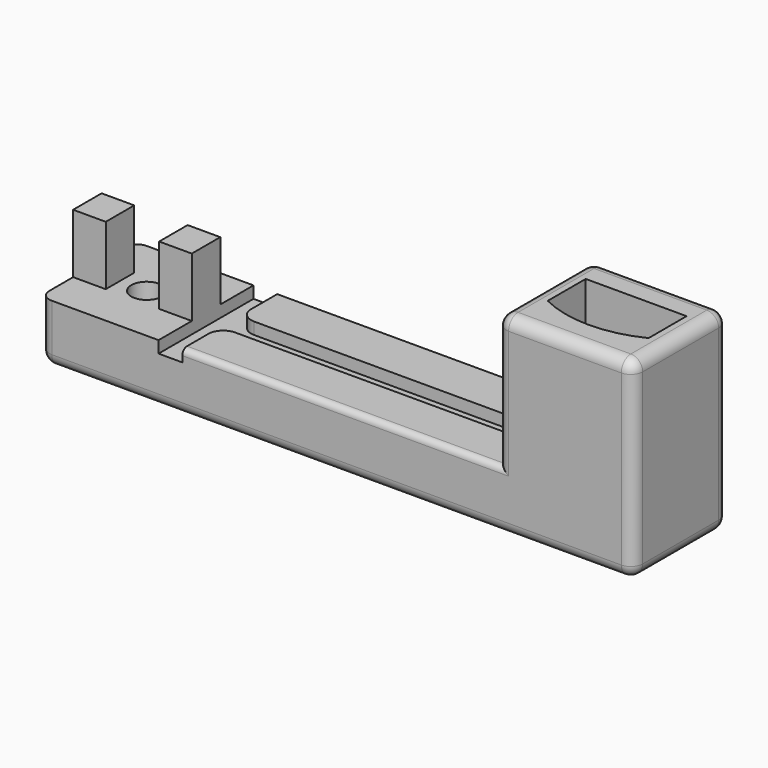
from build123d import *

# Parameters (mm, degrees)
SKETCH_W        = 100
SKETCH_H        = 20
SKETCH_R        = 2.6
PAD_DEPTH       = 10
SKETCH001_W     = 23
SKETCH001_H     = 20
PAD001_DEPTH    = 22.5
POCKET_DEPTH    = 10
SKETCH003_R     = 3.5
POCKET001_DEPTH = 15
POCKET002_DEPTH = 2
SKETCH006_W     = 5.5
SKETCH006_H     = 6
PAD002_DEPTH    = 10
FILLET_R        = 2
FILLET001_R     = 1
SKETCH007_R     = 4.6
POCKET003_DEPTH = 5


with BuildPart() as part:
    # Sketch → Pad (new body)
    with BuildSketch(Plane.XY):
        with Locations((50, 10)):
            Rectangle(SKETCH_W, SKETCH_H)
        with Locations((10, 10)):
            Circle(SKETCH_R, mode=Mode.SUBTRACT)
    extrude(amount=PAD_DEPTH)

    # Sketch001 (on Face7 of Pad) → Pad001 (join)
    with BuildSketch(Plane.XY.offset(10)):
        with Locations((88.5, 10)):
            Rectangle(SKETCH001_W, SKETCH001_H)
    extrude(amount=PAD001_DEPTH)

    # Sketch002 (on Face11 of Pad001) → Pocket (cut)
    with BuildSketch(Plane.XY.offset(32.5)):
        with BuildLine():
            Line((80, 15), (97, 15))
            Line((97, 15), (97, 7))
            ThreePointArc((80, 7), (88.5, 5.015981), (97, 7))
            Line((80, 7), (80, 15))
        make_face()
    extrude(amount=-POCKET_DEPTH, mode=Mode.SUBTRACT)

    # Sketch003 (on Face17 of Pocket) → Pocket001 (cut)
    with BuildSketch(Plane.XY.offset(22.5)):
        with Locations((88.5, 10)):
            Circle(SKETCH003_R)
    extrude(amount=-POCKET001_DEPTH, mode=Mode.SUBTRACT)

    # Sketch004 (on Face5 of Pocket001) → Pocket002 (cut)
    with BuildSketch(Plane.XY.offset(10)):
        with BuildLine():
            Line((26.5, 12), (91.5, 12))
            Line((91.5, 12), (91.5, 8))
            Line((91.5, 8), (26.5, 8))
            ThreePointArc((26.5, 8), (24.732233, 7.267767), (24, 5.5))
            Line((24, 5.5), (24, 0))
            Line((24, 0), (20, 0))
            Line((20, 0), (20, 20))
            Line((20, 20), (24, 20))
            Line((24, 20), (24, 14.5))
            ThreePointArc((24, 14.5), (24.732233, 12.732233), (26.5, 12))
        make_face()
    extrude(amount=-POCKET002_DEPTH, mode=Mode.SUBTRACT)

    # Sketch006 → Pad002 (join)
    with BuildSketch(Plane.XY.offset(10)):
        with Locations((2.75, 10)):
            Rectangle(SKETCH006_W, SKETCH006_H)
        with Locations((17.25, 10)):
            Rectangle(SKETCH006_W, SKETCH006_H)
    extrude(amount=PAD002_DEPTH)

    # Fillet
    fillet_edges = [part.edges().sort_by_distance(p)[0] for p in [
        (77, 10, 32.5),
        (88.5, 0, 32.5),
        (88.5, 20, 32.5),
        (100, 10, 32.5),
        (100, 10, 0),
        (50, 20, 0),
        (0, 10, 0),
        (50, 0, 0),
        (77, 20, 21.25),
        (77, 0, 21.25),
        (100, 0, 21.25),
        (100, 20, 21.25),
        (0, 20, 5),
        (0, 0, 5),
    ]]
    fillet(fillet_edges, radius=FILLET_R)

    # Fillet001
    fillet001_edges = [part.edges().sort_by_distance(p)[0] for p in [
        (0, 18, 6),
        (50.5, 0, 10),
    ]]
    fillet(fillet001_edges, radius=FILLET001_R)

    # Sketch007 (on Face38 of Fillet001) → Pocket003 (cut)
    with BuildSketch(Plane(origin=(0, 0, 0), x_dir=(1, 0, 0), z_dir=(0, 0, -1))):
        with Locations((10, -10)):
            Circle(SKETCH007_R)
    extrude(amount=-POCKET003_DEPTH, mode=Mode.SUBTRACT)


solid = part.part
